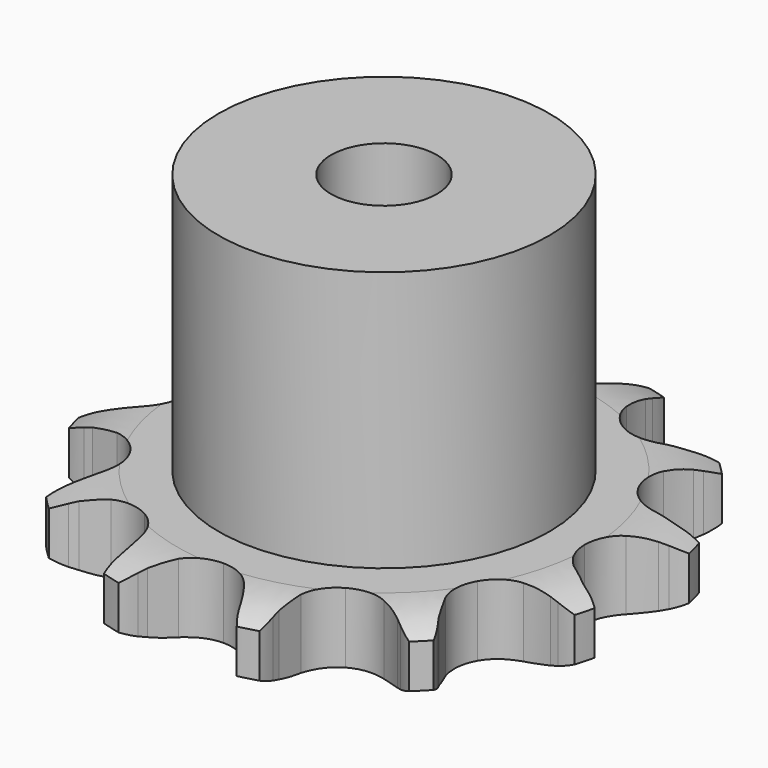
from build123d import *

# Parameters (mm, degrees)
PAD_DEPTH         = 5.3
SKETCH001_R       = 12.5
PAD001_DEPTH      = 25
SKETCH002_R       = 4
POCKET_DEPTH      = 0.001
POCKET_DEPTH_BACK = -25.001


with BuildPart() as part:
    # Sprocket → Pad (new body)
    with BuildSketch(Plane.XY):
        with BuildLine():
            ThreePointArc((-5.477307, 20.441588), (-4.527809, 19.570219), (-3.814697, 18.496767))
            Line((-3.814697, 18.496767), (-3.533665, 17.937187))
            ThreePointArc((-3.533665, 17.937187), (-3.050542, 17.100392), (-2.473538, 16.325342))
            ThreePointArc((-2.473538, 16.325342), (-1.364624, 15.474442), (0, 15.171912))
            ThreePointArc((0, 15.171912), (1.364624, 15.474442), (2.473538, 16.325342))
            ThreePointArc((2.473538, 16.325342), (3.050542, 17.100392), (3.533665, 17.937187))
            Line((3.533665, 17.937187), (3.814697, 18.496767))
            ThreePointArc((3.814697, 18.496767), (4.527809, 19.570219), (5.477307, 20.441588))
            ThreePointArc((5.477307, 20.441588), (5.863912, 19.212212), (5.944759, 17.926018))
            Line((5.944759, 17.926018), (5.908349, 17.300892))
            ThreePointArc((5.908349, 17.300892), (5.908349, 16.334644), (6.020524, 15.37493))
            ThreePointArc((6.020524, 15.37493), (6.555422, 14.083572), (7.585956, 13.139261))
            ThreePointArc((7.585956, 13.139261), (8.91902, 12.718948), (10.304818, 12.901392))
            Line((10.304818, 12.901392), (12.028838, 13.767227))
            ThreePointArc((12.028838, 13.767227), (12.28718, 13.944204), (12.552008, 14.111321))
            ThreePointArc((12.552008, 14.111321), (13.706308, 14.684402), (14.964281, 14.964281))
            ThreePointArc((14.964281, 14.964281), (14.684402, 13.706308), (14.111321, 12.552008))
            Line((14.111321, 12.552008), (13.767227, 12.028838))
            ThreePointArc((13.767227, 12.028838), (13.284103, 11.192042), (12.901392, 10.304818))
            ThreePointArc((12.901392, 10.304818), (12.718948, 8.91902), (13.139261, 7.585956))
            ThreePointArc((13.139261, 7.585956), (14.083572, 6.555422), (15.37493, 6.020524))
            Line((15.37493, 6.020524), (17.300892, 5.908349))
            ThreePointArc((17.300892, 5.908349), (17.613112, 5.932445), (17.926018, 5.944759))
            ThreePointArc((17.926018, 5.944759), (19.212212, 5.863912), (20.441588, 5.477307))
            ThreePointArc((20.441588, 5.477307), (19.570219, 4.527809), (18.496767, 3.814697))
            Line((18.496767, 3.814697), (17.937187, 3.533665))
            ThreePointArc((17.937187, 3.533665), (17.100392, 3.050542), (16.325342, 2.473538))
            ThreePointArc((16.325342, 2.473538), (15.474442, 1.364624), (15.171912, 0))
            ThreePointArc((15.171912, 0), (15.474442, -1.364624), (16.325342, -2.473538))
            Line((16.325342, -2.473538), (17.937187, -3.533665))
            ThreePointArc((17.937187, -3.533665), (18.219625, -3.668908), (18.496767, -3.814697))
            ThreePointArc((18.496767, -3.814697), (19.570219, -4.527809), (20.441588, -5.477307))
            ThreePointArc((20.441588, -5.477307), (19.212212, -5.863912), (17.926018, -5.944759))
            Line((17.926018, -5.944759), (17.300892, -5.908349))
            ThreePointArc((17.300892, -5.908349), (16.334644, -5.908349), (15.37493, -6.020524))
            ThreePointArc((15.37493, -6.020524), (14.083572, -6.555422), (13.139261, -7.585956))
            ThreePointArc((13.139261, -7.585956), (12.718948, -8.91902), (12.901392, -10.304818))
            Line((12.901392, -10.304818), (13.767227, -12.028838))
            ThreePointArc((13.767227, -12.028838), (13.944204, -12.28718), (14.111321, -12.552008))
            ThreePointArc((14.111321, -12.552008), (14.684402, -13.706308), (14.964281, -14.964281))
            ThreePointArc((14.964281, -14.964281), (13.706308, -14.684402), (12.552008, -14.111321))
            Line((12.552008, -14.111321), (12.028838, -13.767227))
            ThreePointArc((12.028838, -13.767227), (11.192042, -13.284103), (10.304818, -12.901392))
            ThreePointArc((10.304818, -12.901392), (8.91902, -12.718948), (7.585956, -13.139261))
            ThreePointArc((7.585956, -13.139261), (6.555422, -14.083572), (6.020524, -15.37493))
            Line((6.020524, -15.37493), (5.908349, -17.300892))
            ThreePointArc((5.908349, -17.300892), (5.932445, -17.613112), (5.944759, -17.926018))
            ThreePointArc((5.944759, -17.926018), (5.863912, -19.212212), (5.477307, -20.441588))
            ThreePointArc((5.477307, -20.441588), (4.527809, -19.570219), (3.814697, -18.496767))
            Line((3.814697, -18.496767), (3.533665, -17.937187))
            ThreePointArc((3.533665, -17.937187), (3.050542, -17.100392), (2.473538, -16.325342))
            ThreePointArc((2.473538, -16.325342), (1.364624, -15.474442), (0, -15.171912))
            ThreePointArc((0, -15.171912), (-1.364624, -15.474442), (-2.473538, -16.325342))
            Line((-2.473538, -16.325342), (-3.533665, -17.937187))
            ThreePointArc((-3.533665, -17.937187), (-3.668908, -18.219625), (-3.814697, -18.496767))
            ThreePointArc((-3.814697, -18.496767), (-4.527809, -19.570219), (-5.477307, -20.441588))
            ThreePointArc((-5.477307, -20.441588), (-5.863912, -19.212212), (-5.944759, -17.926018))
            Line((-5.944759, -17.926018), (-5.908349, -17.300892))
            ThreePointArc((-5.908349, -17.300892), (-5.908349, -16.334644), (-6.020524, -15.37493))
            ThreePointArc((-6.020524, -15.37493), (-6.555422, -14.083572), (-7.585956, -13.139261))
            ThreePointArc((-7.585956, -13.139261), (-8.91902, -12.718948), (-10.304818, -12.901392))
            Line((-10.304818, -12.901392), (-12.028838, -13.767227))
            ThreePointArc((-12.028838, -13.767227), (-12.28718, -13.944204), (-12.552008, -14.111321))
            ThreePointArc((-12.552008, -14.111321), (-13.706308, -14.684402), (-14.964281, -14.964281))
            ThreePointArc((-14.964281, -14.964281), (-14.684402, -13.706308), (-14.111321, -12.552008))
            Line((-14.111321, -12.552008), (-13.767227, -12.028838))
            ThreePointArc((-13.767227, -12.028838), (-13.284103, -11.192042), (-12.901392, -10.304818))
            ThreePointArc((-12.901392, -10.304818), (-12.718948, -8.91902), (-13.139261, -7.585956))
            ThreePointArc((-13.139261, -7.585956), (-14.083572, -6.555422), (-15.37493, -6.020524))
            Line((-15.37493, -6.020524), (-17.300892, -5.908349))
            ThreePointArc((-17.300892, -5.908349), (-17.613112, -5.932445), (-17.926018, -5.944759))
            ThreePointArc((-17.926018, -5.944759), (-19.212212, -5.863912), (-20.441588, -5.477307))
            ThreePointArc((-20.441588, -5.477307), (-19.570219, -4.527809), (-18.496767, -3.814697))
            Line((-18.496767, -3.814697), (-17.937187, -3.533665))
            ThreePointArc((-17.937187, -3.533665), (-17.100392, -3.050542), (-16.325342, -2.473538))
            ThreePointArc((-16.325342, -2.473538), (-15.474442, -1.364624), (-15.171912, 0))
            ThreePointArc((-15.171912, 0), (-15.474442, 1.364624), (-16.325342, 2.473538))
            Line((-16.325342, 2.473538), (-17.937187, 3.533665))
            ThreePointArc((-17.937187, 3.533665), (-18.219625, 3.668908), (-18.496767, 3.814697))
            ThreePointArc((-18.496767, 3.814697), (-19.570219, 4.527809), (-20.441588, 5.477307))
            ThreePointArc((-20.441588, 5.477307), (-19.212212, 5.863912), (-17.926018, 5.944759))
            Line((-17.926018, 5.944759), (-17.300892, 5.908349))
            ThreePointArc((-17.300892, 5.908349), (-16.334644, 5.908349), (-15.37493, 6.020524))
            ThreePointArc((-15.37493, 6.020524), (-14.083572, 6.555422), (-13.139261, 7.585956))
            ThreePointArc((-13.139261, 7.585956), (-12.718948, 8.91902), (-12.901392, 10.304818))
            Line((-12.901392, 10.304818), (-13.767227, 12.028838))
            ThreePointArc((-13.767227, 12.028838), (-13.944204, 12.28718), (-14.111321, 12.552008))
            ThreePointArc((-14.111321, 12.552008), (-14.684402, 13.706308), (-14.964281, 14.964281))
            ThreePointArc((-14.964281, 14.964281), (-13.706308, 14.684402), (-12.552008, 14.111321))
            Line((-12.552008, 14.111321), (-12.028838, 13.767227))
            ThreePointArc((-12.028838, 13.767227), (-11.192042, 13.284103), (-10.304818, 12.901392))
            ThreePointArc((-10.304818, 12.901392), (-8.91902, 12.718948), (-7.585956, 13.139261))
            ThreePointArc((-7.585956, 13.139261), (-6.555422, 14.083572), (-6.020524, 15.37493))
            Line((-6.020524, 15.37493), (-5.908349, 17.300892))
            ThreePointArc((-5.908349, 17.300892), (-5.932445, 17.613112), (-5.944759, 17.926018))
            ThreePointArc((-5.944759, 17.926018), (-5.863912, 19.212212), (-5.477307, 20.441588))
        make_face()
    extrude(amount=PAD_DEPTH)

    # Sketch → Groove (revolve, cut)
    with BuildSketch(Plane.XZ):
        with BuildLine():
            Line((15.641101, 0), (20, 0))
            Line((24.358899, 0), (20, 0))
            Line((24.358899, 5.3), (24.358899, 0))
            Line((20, 5.3), (24.358899, 5.3))
            Line((15.641101, 5.3), (20, 5.3))
            ThreePointArc((20, 4.3), (17.877169, 5.046794), (15.641101, 5.3))
            Line((20, 1), (20, 4.3))
            ThreePointArc((15.641101, 0), (17.877169, 0.253206), (20, 1))
        make_face()
    revolve(axis=Axis((0, 0, 0), (0, 0, 1)), mode=Mode.SUBTRACT)

    # Sketch001 → Pad001 (join)
    with BuildSketch(Plane.XY):
        Circle(SKETCH001_R)
    extrude(amount=PAD001_DEPTH)

    # Sketch002 → Pocket (cut, two sides)
    with BuildSketch(Plane.XY) as pocket_sk:
        Circle(SKETCH002_R)
    extrude(amount=-POCKET_DEPTH, mode=Mode.SUBTRACT)
    extrude(pocket_sk.sketch, amount=-POCKET_DEPTH_BACK, mode=Mode.SUBTRACT)


solid = part.part
